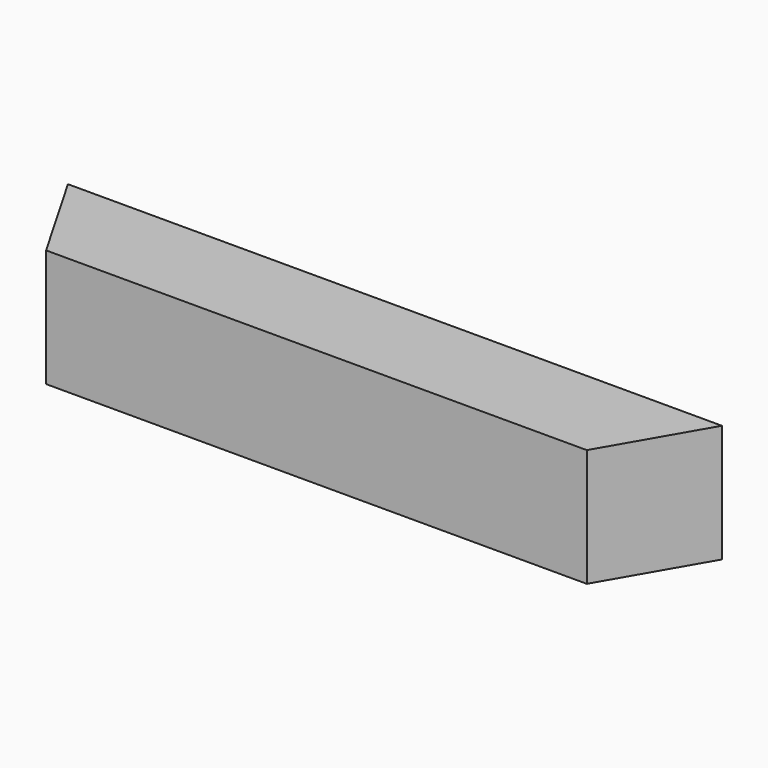
from build123d import *

# Parameters (mm, degrees)
PAD_DEPTH = 18


with BuildPart() as part:
    # Sketch → Pad (new body)
    with BuildSketch(Plane.XY):
        Polygon((-8.660254, 0), (-91.339746, 0), (-100, 15), (0, 15), align=None)
    extrude(amount=PAD_DEPTH)


solid = part.part
